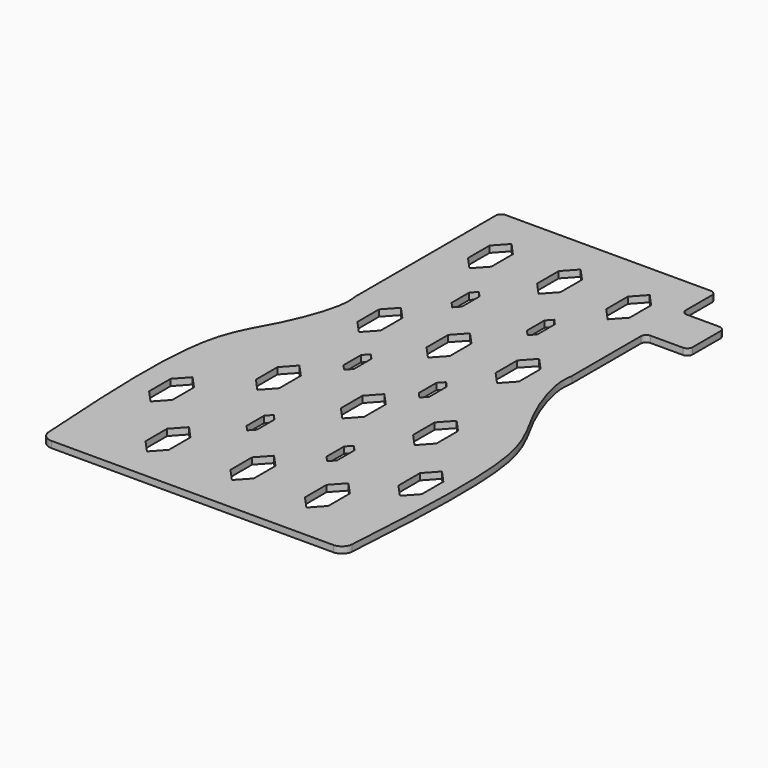
from build123d import *

# Parameters (mm, degrees)
F1_DEPTH = 6


with BuildPart() as f1:
    # F0 (on Top) → F1 (new body)
    with BuildSketch(Plane.XY):
        with BuildLine():
            Line((95, 262.1821570396), (0, 262.1821570396))
            Line((0, 262.1821570396), (-95, 262.1821570396))
            ThreePointArc((-95, 262.1821570396), (-98.5355339059, 260.7176909456), (-100, 257.1821570396))
            Line((-100, 257.1821570396), (-100, 95.3790545464))
            add(Edge.make_bspline(
                [(-140.6018761806, -209.8051889464), (-145.28862702, -136.7092151999), (-151.7930566351, -23.6301706956), (-115.64488398, 25.6274545282), (-97.9540393108, 76.553678361), (-99.4446328149, 90.2689875565), (-100, 95.3790545464)],
                knots=[0.0173618711, 0.0173618711, 0.0173618711, 0.0173618711, 0.4243124, 0.6579372091, 0.8725538192, 1, 1, 1, 1], degree=3))
            ThreePointArc((-140.6018761806, -209.8051889464), (-137.4634707904, -216.4591114866), (-130.6223684602, -219.1653251648))
            Line((-130.6223684602, -219.1653251648), (130.6223684602, -219.1653251648))
            ThreePointArc((130.6223684602, -219.1653251648), (137.4634707904, -216.4591114866), (140.6018761806, -209.8051889464))
            add(Edge.make_bspline(
                [(140.6018761806, -209.8051889464), (145.28862702, -136.7092151999), (151.7930566351, -23.6301706956), (115.64488398, 25.6274545282), (97.9540393108, 76.553678361), (99.4446328149, 90.2689875565), (100, 95.3790545464)],
                knots=[0.0173618711, 0.0173618711, 0.0173618711, 0.0173618711, 0.4243124, 0.6579372091, 0.8725538192, 1, 1, 1, 1], degree=3))
            Line((100, 95.3790545464), (100, 175.0877600908))
            ThreePointArc((100, 175.0877600908), (101.4644660941, 178.6232939968), (105, 180.0877600908))
            Line((105, 180.0877600908), (135, 180.0877600908))
            ThreePointArc((135, 180.0877600908), (138.5355339059, 181.5522261849), (140, 185.0877600908))
            Line((140, 185.0877600908), (140, 217.1821570396))
            ThreePointArc((140, 217.1821570396), (138.5355339059, 220.7176909456), (135, 222.1821570396))
            Line((135, 222.1821570396), (105, 222.1821570396))
            ThreePointArc((105, 222.1821570396), (101.4644660941, 223.6466231337), (100, 227.1821570396))
            Line((100, 227.1821570396), (100, 257.1821570396))
            ThreePointArc((100, 257.1821570396), (98.5355339059, 260.7176909456), (95, 262.1821570396))
        make_face()
        Polygon((-113.0212247372, -77.5594741106), (-102.2047810256, -89.4264161587), (-102.2047810256, -114.4264161587), (-113.0212247372, -126.2933582067), (-123.8376684487, -114.4264161587), (-123.8376684487, -89.4264161587), align=None, mode=Mode.SUBTRACT)
        Polygon((-76.974330689, -177.1341983843), (-76.974330689, -152.1341983843), (-66.1578869775, -140.2672563362), (-55.3414432659, -152.1341983843), (-55.3414432659, -177.1341983843), (-66.1578869775, -189.0011404323), align=None, mode=Mode.SUBTRACT)
        Polygon((-34.964894978, -112.7157764564), (-34.964894978, -92.3640566064), (-30.1484465599, -87.0798323475), (-25.3319981418, -92.3640566064), (-25.3319981418, -112.7157764564), (-30.1484465599, -118.0000007153), align=None, mode=Mode.SUBTRACT)
        Polygon((-64.1132891178, -15.046416223), (-53.2968454063, -26.9133582711), (-53.2968454063, -51.9133582711), (-64.1132891178, -63.7803003192), (-74.9297328293, -51.9133582711), (-74.9297328293, -26.9133582711), align=None, mode=Mode.SUBTRACT)
        Polygon((-39.5913329997, 5.2842242589), (-39.5913329997, 25.6359441089), (-34.7748845816, 30.9201683677), (-29.9584361635, 25.6359441089), (-29.9584361635, 5.2842242589), (-34.7748845816, 0), align=None, mode=Mode.SUBTRACT)
        Polygon((-1.0179981434, -173.7170352519), (-1.0179981434, -148.7170352519), (9.7984455681, -136.8500932038), (20.6148892796, -148.7170352519), (20.6148892796, -173.7170352519), (9.7984455681, -185.5839772999), align=None, mode=Mode.SUBTRACT)
        Polygon((40.3145010493, -114.2058925758), (40.3145010493, -93.8541727258), (45.1309494674, -88.5699484669), (49.9473978855, -93.8541727258), (49.9473978855, -114.2058925758), (45.1309494674, -119.4901168346), align=None, mode=Mode.SUBTRACT)
        Polygon((78.761510551, -136.8500932038), (89.5779542625, -148.7170352519), (89.5779542625, -173.7170352519), (78.761510551, -185.5839772999), (67.9450668395, -173.7170352519), (67.9450668395, -148.7170352519), align=None, mode=Mode.SUBTRACT)
        Polygon((120.0424358249, -80.2271872759), (130.8588795364, -92.094129324), (130.8588795364, -117.094129324), (120.0424358249, -128.961071372), (109.2259921134, -117.094129324), (109.2259921134, -92.094129324), align=None, mode=Mode.SUBTRACT)
        Polygon((1.0265997163, -48.4961951387), (1.0265997163, -23.4961951387), (11.8430434278, -11.6292530907), (22.6594871393, -23.4961951387), (22.6594871393, -48.4961951387), (11.8430434278, -60.3631371868), align=None, mode=Mode.SUBTRACT)
        Polygon((30.1835480056, 5.2842242589), (30.1835480056, 25.6359441089), (34.9999964237, 30.9201683677), (39.8164448418, 25.6359441089), (39.8164448418, 5.2842242589), (34.9999964237, 0), align=None, mode=Mode.SUBTRACT)
        Polygon((78.761510551, -11.6292530907), (89.5779542625, -23.4961951387), (89.5779542625, -48.4961951387), (78.761510551, -60.3631371868), (67.9450668395, -48.4961951387), (67.9450668395, -23.4961951387), align=None, mode=Mode.SUBTRACT)
        Polygon((-74.0937069058, 64.5764083862), (-74.0937069058, 89.5764083862), (-63.2772631943, 101.4433504343), (-52.4608194828, 89.5764083862), (-52.4608194828, 64.5764083862), (-63.2772631943, 52.7094663382), align=None, mode=Mode.SUBTRACT)
        Polygon((-39.591331137, 130.4391115935), (-39.591331137, 150.7908314435), (-34.7748827189, 156.0750557024), (-29.9584343008, 150.7908314435), (-29.9584343008, 130.4391115935), (-34.7748827189, 125.1548873346), align=None, mode=Mode.SUBTRACT)
        Polygon((-63.2772631943, 229.4433504343), (-52.4608194828, 217.5764083862), (-52.4608194828, 192.5764083862), (-63.2772631943, 180.7094663382), (-74.0937069058, 192.5764083862), (-74.0937069058, 217.5764083862), align=None, mode=Mode.SUBTRACT)
        Polygon((-10.0937069058, 64.5764083862), (-10.0937069058, 89.5764083862), (0.7227368057, 101.4433504343), (11.5391805172, 89.5764083862), (11.5391805172, 64.5764083862), (0.7227368057, 52.7094663382), align=None, mode=Mode.SUBTRACT)
        Polygon((53.9062930942, 64.5764083862), (53.9062930942, 89.5764083862), (64.7227368057, 101.4433504343), (75.5391805172, 89.5764083862), (75.5391805172, 64.5764083862), (64.7227368057, 52.7094663382), align=None, mode=Mode.SUBTRACT)
        Polygon((30.1835480056, 130.4391115935), (30.1835480056, 150.7908314435), (34.9999964237, 156.0750557024), (39.8164448418, 150.7908314435), (39.8164448418, 130.4391115935), (34.9999964237, 125.1548873346), align=None, mode=Mode.SUBTRACT)
        Polygon((-10.0937069058, 192.5764083862), (-10.0937069058, 217.5764083862), (0.7227368057, 229.4433504343), (11.5391805172, 217.5764083862), (11.5391805172, 192.5764083862), (0.7227368057, 180.7094663382), align=None, mode=Mode.SUBTRACT)
        Polygon((53.9062930942, 192.5764083862), (53.9062930942, 217.5764083862), (64.7227368057, 229.4433504343), (75.5391805172, 217.5764083862), (75.5391805172, 192.5764083862), (64.7227368057, 180.7094663382), align=None, mode=Mode.SUBTRACT)
    extrude(amount=F1_DEPTH)


solid = f1.part
